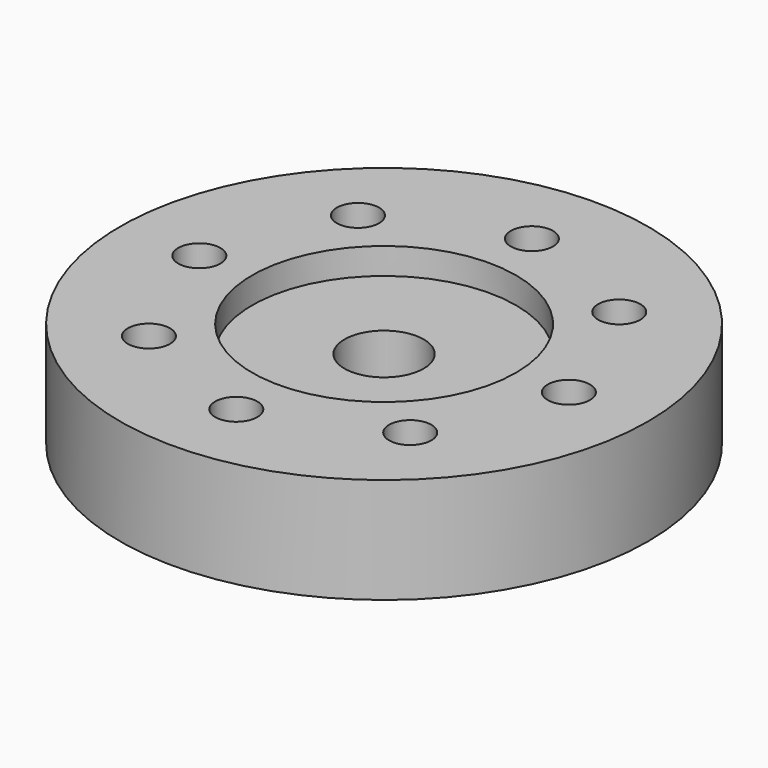
from build123d import *

# Parameters (mm, degrees)
F0_R     = 10
F0_R_2   = 0.8
F0_R_3   = 5
F0_R_4   = 1.5
F1_DEPTH = 4
F2_DEPTH = 1


with BuildPart() as f1:
    # F0 (on Top) → F1 (new body)
    with BuildSketch(Plane.XY):
        Circle(F0_R)
        with Locations((-4.949747, -4.949747)):
            Circle(F0_R_2, mode=Mode.SUBTRACT)
        with Locations((0, -7)):
            Circle(F0_R_2, mode=Mode.SUBTRACT)
        with Locations((4.949747, -4.949747)):
            Circle(F0_R_2, mode=Mode.SUBTRACT)
        with Locations((-7, 0)):
            Circle(F0_R_2, mode=Mode.SUBTRACT)
        with Locations((-4.949747, 4.949747)):
            Circle(F0_R_2, mode=Mode.SUBTRACT)
        Circle(F0_R_3, mode=Mode.SUBTRACT)
        with Locations((4.949747, 4.949747)):
            Circle(F0_R_2, mode=Mode.SUBTRACT)
        with Locations((7, 0)):
            Circle(F0_R_2, mode=Mode.SUBTRACT)
        with Locations((0, 7)):
            Circle(F0_R_2, mode=Mode.SUBTRACT)
        Circle(F0_R_3)
        Circle(F0_R_4, mode=Mode.SUBTRACT)
    extrude(amount=-F1_DEPTH)

    # F0 (on Top) → F2 (cut)
    with BuildSketch(Plane.XY):
        Circle(F0_R_3)
        Circle(F0_R_4, mode=Mode.SUBTRACT)
    extrude(amount=-F2_DEPTH, mode=Mode.SUBTRACT)


solid = f1.part
